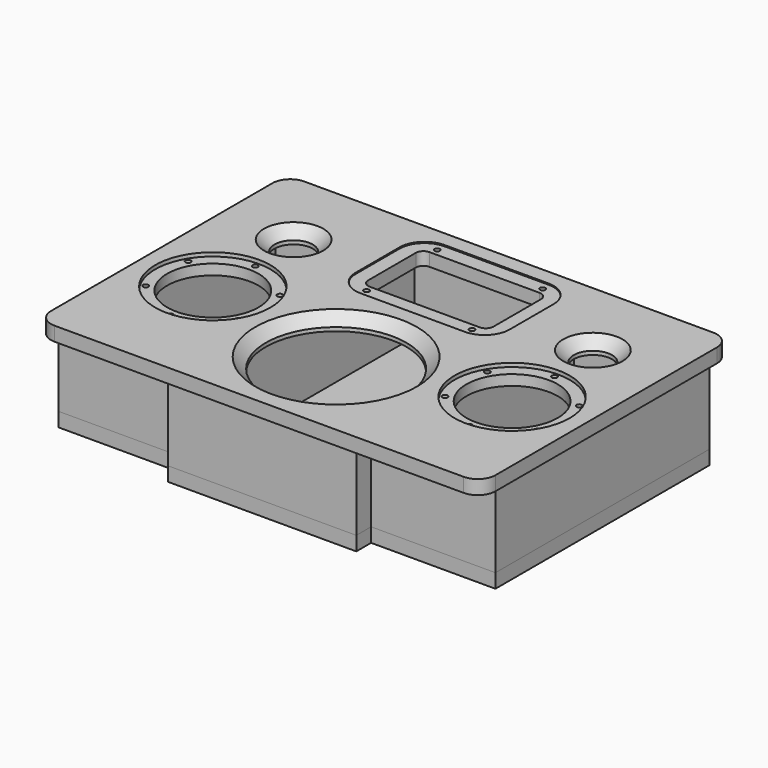
from build123d import *

# Parameters (mm, degrees)
F1_DEPTH  = 12
F2_R      = 16.25
F2_R_2    = 59.69
F2_R_3    = 38.735
F2_R_4    = 2.286
F3_DEPTH  = 12.001
F2_R_5    = 48.895
F4_DEPTH  = 3.175
F5_SIZE   = 8.89
F6_DEPTH  = 1.016
F7_W      = 12
F7_H      = 203.2
F8_DEPTH  = 63.5
F10_DEPTH = 12


with BuildPart() as f1:
    # F0 (on Top) → F1 (new body)
    with BuildSketch(Plane.XY):
        with BuildLine():
            Line((173.6217, 132.4991), (-173.6217, 132.4991))
            ThreePointArc((-173.6217, 132.4991), (-184.236363, 128.102363), (-188.6331, 117.4877))
            Line((-188.6331, 117.4877), (-188.6331, -117.4877))
            ThreePointArc((-188.6331, -117.4877), (-184.236363, -128.102363), (-173.6217, -132.4991))
            Line((-173.6217, -132.4991), (173.6217, -132.4991))
            ThreePointArc((173.6217, -132.4991), (184.236363, -128.102363), (188.6331, -117.4877))
            Line((188.6331, -117.4877), (188.6331, 117.4877))
            ThreePointArc((188.6331, 117.4877), (184.236363, 128.102363), (173.6217, 132.4991))
        make_face()
    extrude(amount=-F1_DEPTH)

    # F2 (on face) → F3 (cut, through all)
    with BuildSketch(Plane.XY):
        with Locations((-127, 62.865)):
            Circle(F2_R)
        with BuildLine():
            Line((-46.70425, 43.18), (46.70425, 43.18))
            ThreePointArc((46.70425, 43.18), (51.284181, 45.077069), (53.18125, 49.657))
            Line((53.18125, 49.657), (53.18125, 100.203))
            ThreePointArc((53.18125, 100.203), (51.284181, 104.782931), (46.70425, 106.68))
            Line((46.70425, 106.68), (-46.70425, 106.68))
            ThreePointArc((-46.70425, 106.68), (-51.284181, 104.782931), (-53.18125, 100.203))
            Line((-53.18125, 100.203), (-53.18125, 49.657))
            ThreePointArc((-53.18125, 49.657), (-51.284181, 45.077069), (-46.70425, 43.18))
        make_face()
        with Locations((127, 62.865)):
            Circle(F2_R)
        with Locations((0, -50.8)):
            Circle(F2_R_2)
        with Locations((127, -22.86)):
            Circle(F2_R_3)
        with Locations((-127, -22.86)):
            Circle(F2_R_3)
        with Locations((-165.971143, -0.36)):
            Circle(F2_R_4)
        with Locations((-127, 22.14)):
            Circle(F2_R_4)
        with Locations((-88.028857, -0.36)):
            Circle(F2_R_4)
        with Locations((-88.028857, -45.36)):
            Circle(F2_R_4)
        with Locations((-165.971143, -45.36)):
            Circle(F2_R_4)
        with Locations((-127, -67.86)):
            Circle(F2_R_4)
        with Locations((127, 22.14)):
            Circle(F2_R_4)
        with Locations((165.971143, -0.36)):
            Circle(F2_R_4)
        with Locations((88.028857, -0.36)):
            Circle(F2_R_4)
        with Locations((88.028857, -45.36)):
            Circle(F2_R_4)
        with Locations((127, -67.86)):
            Circle(F2_R_4)
        with Locations((165.971143, -45.36)):
            Circle(F2_R_4)
        with Locations((-44.7675, 112.395)):
            Circle(F2_R_4)
        with Locations((44.7675, 112.395)):
            Circle(F2_R_4)
        with Locations((-44.7675, 37.465)):
            Circle(F2_R_4)
        with Locations((44.7675, 37.465)):
            Circle(F2_R_4)
    extrude(amount=-F3_DEPTH, mode=Mode.SUBTRACT)

    # F2 (on face) → F4 (cut)
    with BuildSketch(Plane.XY):
        with Locations((-127, -22.86)):
            Circle(F2_R_5)
        with Locations((-127, -67.86)):
            Circle(F2_R_4, mode=Mode.SUBTRACT)
        with Locations((-165.971143, -45.36)):
            Circle(F2_R_4, mode=Mode.SUBTRACT)
        with Locations((-165.971143, -0.36)):
            Circle(F2_R_4, mode=Mode.SUBTRACT)
        with Locations((-127, -22.86)):
            Circle(F2_R_3, mode=Mode.SUBTRACT)
        with Locations((-88.028857, -45.36)):
            Circle(F2_R_4, mode=Mode.SUBTRACT)
        with Locations((-88.028857, -0.36)):
            Circle(F2_R_4, mode=Mode.SUBTRACT)
        with Locations((-127, 22.14)):
            Circle(F2_R_4, mode=Mode.SUBTRACT)
        with Locations((127, -22.86)):
            Circle(F2_R_5)
        with Locations((127, -67.86)):
            Circle(F2_R_4, mode=Mode.SUBTRACT)
        with Locations((88.028857, -45.36)):
            Circle(F2_R_4, mode=Mode.SUBTRACT)
        with Locations((88.028857, -0.36)):
            Circle(F2_R_4, mode=Mode.SUBTRACT)
        with Locations((165.971143, -45.36)):
            Circle(F2_R_4, mode=Mode.SUBTRACT)
        with Locations((127, -22.86)):
            Circle(F2_R_3, mode=Mode.SUBTRACT)
        with Locations((165.971143, -0.36)):
            Circle(F2_R_4, mode=Mode.SUBTRACT)
        with Locations((127, 22.14)):
            Circle(F2_R_4, mode=Mode.SUBTRACT)
    extrude(amount=-F4_DEPTH, mode=Mode.SUBTRACT)

    # F5
    f5_edges = [f1.edges().sort_by_distance(p)[0] for p in [
        (-143.25, 62.865, 0),
        (110.75, 62.865, 0),
        (-59.69, -50.8, 0),
    ]]
    chamfer(f5_edges, length=F5_SIZE)

    # F2 (on face) → F6 (cut)
    with BuildSketch(Plane.XY):
        with BuildLine():
            Line((-44.196, 30.48), (44.196, 30.48))
            ThreePointArc((44.196, 30.48), (59.148126, 36.673374), (65.3415, 51.6255))
            Line((65.3415, 51.6255), (65.3415, 98.2345))
            ThreePointArc((65.3415, 98.2345), (59.148126, 113.186626), (44.196, 119.38))
            Line((44.196, 119.38), (-44.196, 119.38))
            ThreePointArc((-44.196, 119.38), (-59.148126, 113.186626), (-65.3415, 98.2345))
            Line((-65.3415, 98.2345), (-65.3415, 51.6255))
            ThreePointArc((-65.3415, 51.6255), (-59.148126, 36.673374), (-44.196, 30.48))
        make_face()
        with Locations((-44.7675, 37.465)):
            Circle(F2_R_4, mode=Mode.SUBTRACT)
        with Locations((-44.7675, 112.395)):
            Circle(F2_R_4, mode=Mode.SUBTRACT)
        with Locations((44.7675, 37.465)):
            Circle(F2_R_4, mode=Mode.SUBTRACT)
        with BuildLine():
            ThreePointArc((53.18125, 49.657), (51.284181, 45.077069), (46.70425, 43.18))
            Line((46.70425, 43.18), (-46.70425, 43.18))
            ThreePointArc((-46.70425, 43.18), (-51.284181, 45.077069), (-53.18125, 49.657))
            Line((-53.18125, 49.657), (-53.18125, 100.203))
            ThreePointArc((-53.18125, 100.203), (-51.284181, 104.782931), (-46.70425, 106.68))
            Line((-46.70425, 106.68), (46.70425, 106.68))
            ThreePointArc((46.70425, 106.68), (51.284181, 104.782931), (53.18125, 100.203))
            Line((53.18125, 100.203), (53.18125, 49.657))
        make_face(mode=Mode.SUBTRACT)
        with Locations((44.7675, 112.395)):
            Circle(F2_R_4, mode=Mode.SUBTRACT)
    extrude(amount=-F6_DEPTH, mode=Mode.SUBTRACT)


with BuildPart() as f8:
    # F7 (on face) → F8 (new body)
    with BuildSketch(Plane(origin=(0, 0, -12), x_dir=(1, 0, 0), z_dir=(0, 0, -1))):
        Polygon((-79.945, 129.3241), (-79.945, 117.3241), (-67.945, 117.3241), (0, 117.3241), (0, 129.3241), align=None)
        Polygon((-67.945, 117.3241), (-79.945, 117.3241), (-79.945, 113.6), (-79.945, 101.6), (-79.945, -101.6), (-79.945, -113.6), (-79.945, -117.3241), (-67.945, -117.3241), align=None)
        Polygon((-79.945, 101.6), (-79.945, 113.6), (-185.4581, 113.6), (-185.4581, 101.6), (-173.4581, 101.6), align=None)
        Polygon((0, -117.3241), (-67.945, -117.3241), (-79.945, -117.3241), (-79.945, -129.3241), (0, -129.3241), align=None)
        Polygon((0, 129.3241), (0, 117.3241), (67.945, 117.3241), (79.945, 117.3241), (79.945, 129.3241), align=None)
        Polygon((67.945, -117.3241), (0, -117.3241), (0, -129.3241), (79.945, -129.3241), (79.945, -117.3241), align=None)
        Polygon((79.945, 117.3241), (67.945, 117.3241), (67.945, -117.3241), (79.945, -117.3241), (79.945, -113.6), (79.945, -101.6), (79.945, 101.6), (79.945, 113.6), align=None)
        Polygon((-79.945, -113.6), (-79.945, -101.6), (-173.4581, -101.6), (-185.4581, -101.6), (-185.4581, -113.6), align=None)
        with Locations((-179.4581, 0)):
            Rectangle(F7_W, F7_H)
        Polygon((185.4581, 113.6), (79.945, 113.6), (79.945, 101.6), (173.4581, 101.6), (185.4581, 101.6), align=None)
        Polygon((79.945, -101.6), (79.945, -113.6), (185.4581, -113.6), (185.4581, -101.6), (173.4581, -101.6), align=None)
        with Locations((179.4581, 0)):
            Rectangle(F7_W, F7_H)
    extrude(amount=F8_DEPTH)


with BuildPart() as f10:
    # F9 (on face) → F10 (new body)
    with BuildSketch(Plane(origin=(0, 0, -75.5), x_dir=(1, 0, 0), z_dir=(0, 0, -1))):
        Polygon((-185.4581, 113.6), (-185.4581, -113.6), (-79.945, -113.6), (-79.945, -129.3241), (79.945, -129.3241), (79.945, -113.6), (185.4581, -113.6), (185.4581, 113.6), (79.945, 113.6), (79.945, 129.3241), (-79.945, 129.3241), (-79.945, 113.6), align=None)
    extrude(amount=F10_DEPTH)


solid = Compound([f1.part, f8.part, f10.part])
